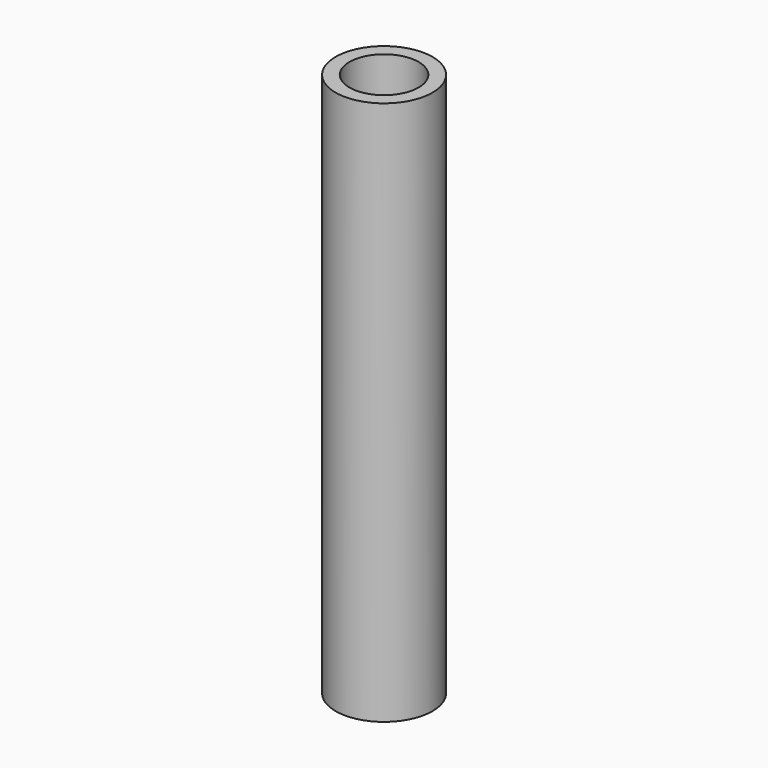
from build123d import *

# Parameters (mm, degrees)
F0_R     = 11.1125
F0_R_2   = 7.9375
F1_DEPTH = 67.7418
F2_DEPTH = 28.575
F3_DEPTH = 28.575
F4_R     = 1.7272
F5_DEPTH = 12.1125001


with BuildPart() as f1:
    # F0 (on Top) → F1 (new body)
    with BuildSketch(Plane.XY):
        Circle(F0_R)
        Circle(F0_R_2, mode=Mode.SUBTRACT)
    extrude(amount=F1_DEPTH)

    # F2 (add): a face of the model
    f2_faces = [f1.faces().sort_by_distance(p)[0] for p in [
        (-10.7981910358, 0, 67.7418),
    ]]
    extrude(f2_faces, amount=F2_DEPTH)

    # F3 (add): a face of the model
    f3_faces = [f1.faces().sort_by_distance(p)[0] for p in [
        (-10.7981910358, 0, 0),
    ]]
    extrude(f3_faces, amount=F3_DEPTH)

    # F4 (on Front) → F5 (cut, up to face)
    with BuildSketch(Plane.XZ):
        with Locations((0, 33.8709)):
            Circle(F4_R)
        with Locations((0, 82.0293)):
            Circle(F4_R)
        with Locations((0, -14.2875)):
            Circle(F4_R)
    extrude(amount=-F5_DEPTH, mode=Mode.SUBTRACT)


solid = f1.part
